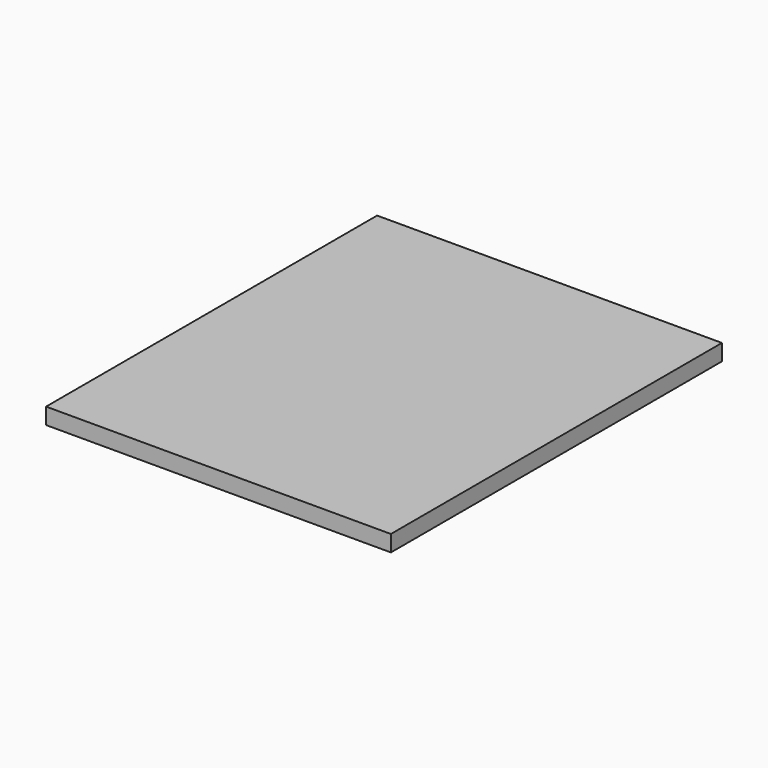
from build123d import *

# Parameters (mm, degrees)
SKETCH001_W   = 127
SKETCH001_H   = 152.4
EXTRUDE_DEPTH = 5.9944


with BuildPart() as part:
    # Sketch001 → Extrude (new body)
    with BuildSketch(Plane.XY):
        with Locations((-7.297146, -22.569679)):
            Rectangle(SKETCH001_W, SKETCH001_H)
    extrude(amount=EXTRUDE_DEPTH)


solid = part.part
